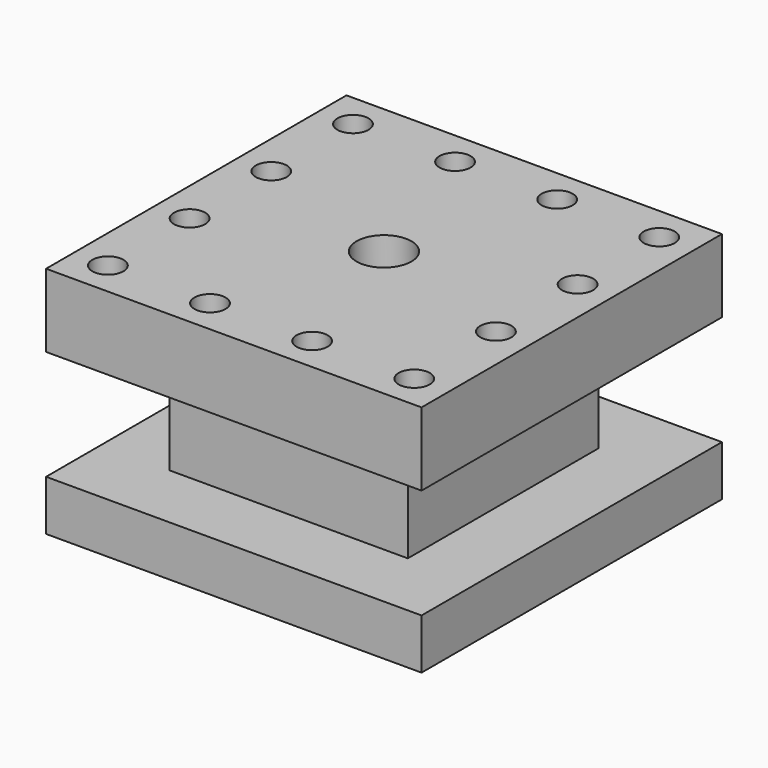
from build123d import *

# Parameters (mm, degrees)
F1_DEPTH  = 82
F2_W      = 52
F2_H      = 24
F3_DEPTH  = 15
F4_W      = 52
F4_H      = 24
F5_DEPTH  = 15
F6_R      = 9.75
F7_DEPTH  = 35.6
F8_R      = 6
F9_DEPTH  = 15.401
F10_R     = 3.25
F11_DEPTH = 20
F12_D     = 6.8
F12_DEPTH = 16
F12_TIP   = 2.0429261047


with BuildPart() as f1:
    # F0 (on Right) → F1 (new body)
    with BuildSketch(Plane.YZ):
        Polygon((0, 11), (0, 0), (82, 0), (82, 11), (67, 11), (67, 35), (82, 35), (82, 51), (0, 51), (0, 35), (15, 35), (15, 11), align=None)
    extrude(amount=F1_DEPTH)

    # F2 (on face) → F3 (cut)
    with BuildSketch(Plane.YZ.offset(82)):
        with Locations((41, 23)):
            Rectangle(F2_W, F2_H)
    extrude(amount=-F3_DEPTH, mode=Mode.SUBTRACT)

    # F4 (on face) → F5 (cut)
    with BuildSketch(Plane(origin=(0, 0, 0), x_dir=(0, -1, 0), z_dir=(-1, 0, 0))):
        with Locations((-41, 23)):
            Rectangle(F4_W, F4_H)
    extrude(amount=-F5_DEPTH, mode=Mode.SUBTRACT)

    # F6 (on face) → F7 (cut)
    with BuildSketch(Plane(origin=(0, 0, 0), x_dir=(1, 0, 0), z_dir=(0, 0, -1))):
        with Locations((41, -41)):
            Circle(F6_R)
    extrude(amount=-F7_DEPTH, mode=Mode.SUBTRACT)

    # F8 (on face) → F9 (cut, through all)
    with BuildSketch(Plane(origin=(0, 0, 35.6), x_dir=(1, 0, 0), z_dir=(0, 0, -1))):
        with Locations((41, -41)):
            Circle(F8_R)
    extrude(amount=-F9_DEPTH, mode=Mode.SUBTRACT)

    # F10 (on face) → F11 (cut)
    with BuildSketch(Plane.XY.offset(51)):
        with Locations((7.5, 7.5)):
            Circle(F10_R)
        with Locations((7.5, 29.8)):
            Circle(F10_R)
        with Locations((7.5, 52.1)):
            Circle(F10_R)
        with Locations((7.5, 74.4)):
            Circle(F10_R)
        with Locations((29.8, 7.5)):
            Circle(F10_R)
        with Locations((29.8, 74.4)):
            Circle(F10_R)
        with Locations((52.1, 7.5)):
            Circle(F10_R)
        with Locations((52.1, 74.4)):
            Circle(F10_R)
        with Locations((74.4, 7.5)):
            Circle(F10_R)
        with Locations((74.4, 29.8)):
            Circle(F10_R)
        with Locations((74.4, 52.1)):
            Circle(F10_R)
        with Locations((74.4, 74.4)):
            Circle(F10_R)
    extrude(amount=-F11_DEPTH, mode=Mode.SUBTRACT)

    # F12
    with Locations(Plane.XY.offset(51)):
        with Locations((7.5, 7.5), (7.5, 29.8), (7.5, 52.1), (7.5, 74.4), (29.8, 74.4), (52.1, 74.4), (74.4, 74.4), (74.4, 52.1), (74.4, 29.8), (74.4, 7.5), (52.1, 7.5), (29.8, 7.5)):
            Hole(F12_D / 2, depth=F12_DEPTH)
            with Locations((0, 0, -(F12_DEPTH + F12_TIP / 2))):  # 118° drill point
                Cone(0, F12_D / 2, F12_TIP, mode=Mode.SUBTRACT)


solid = f1.part
